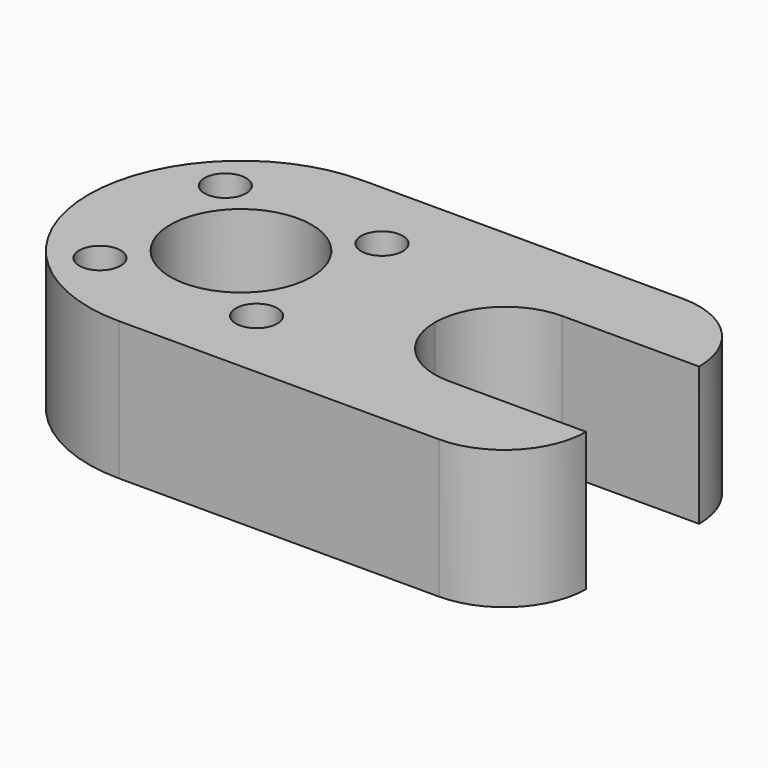
from build123d import *

# Parameters (mm, degrees)
F0_R     = 1.5
F0_R_2   = 5.1
F1_DEPTH = 10


with BuildPart() as f1:
    # F0 (on Top) → F1 (new body)
    with BuildSketch(Plane.XY):
        with BuildLine():
            ThreePointArc((20, 5.1), (18.27193, 9.27193), (14.1, 11))
            Line((14.1, 11), (-9, 11))
            ThreePointArc((-9, 11), (-16.778175, 7.778175), (-20, 0))
            ThreePointArc((-20, 0), (-16.778175, -7.778175), (-9, -11))
            Line((-9, -11), (14.1, -11))
            ThreePointArc((14.1, -11), (18.27193, -9.27193), (20, -5.1))
            Line((20, -5.1), (10.1, -5.1))
            ThreePointArc((10.1, -5.1), (6.493755, -3.606245), (5, 0))
            ThreePointArc((5, 0), (6.493755, 3.606245), (10.1, 5.1))
            Line((10.1, 5.1), (20, 5.1))
        make_face()
        with Locations((-14.656854, -5.656854)):
            Circle(F0_R, mode=Mode.SUBTRACT)
        with Locations((-3.343146, -5.656854)):
            Circle(F0_R, mode=Mode.SUBTRACT)
        with Locations((-9, 0)):
            Circle(F0_R_2, mode=Mode.SUBTRACT)
        with Locations((-14.656854, 5.656854)):
            Circle(F0_R, mode=Mode.SUBTRACT)
        with Locations((-3.343146, 5.656854)):
            Circle(F0_R, mode=Mode.SUBTRACT)
    extrude(amount=F1_DEPTH)


solid = f1.part
